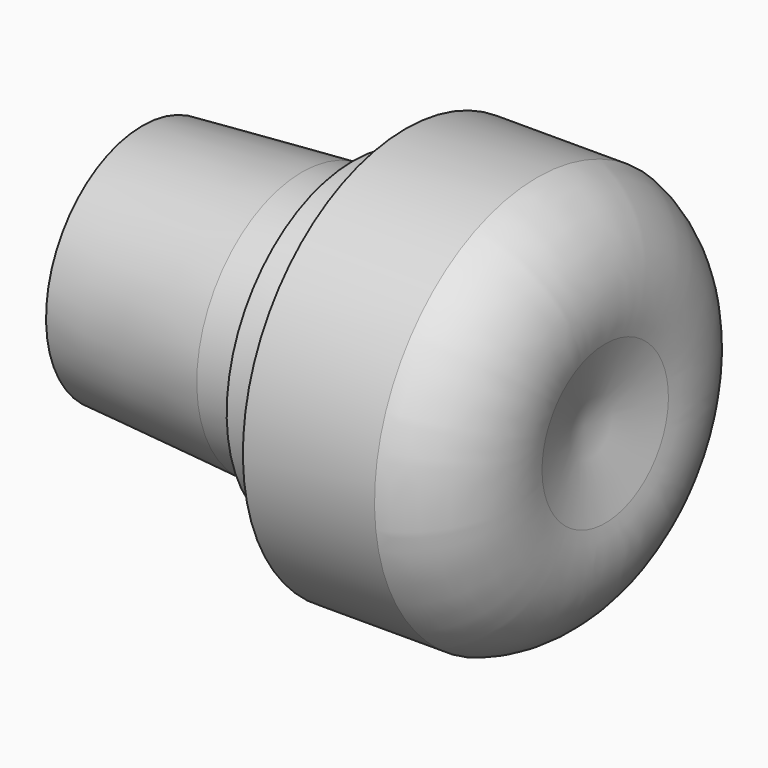
from build123d import *


with BuildPart() as f1:
    # F0 (on Front) → F1 (revolve)
    with BuildSketch(Plane.XZ):
        with BuildLine():
            Line((-114.3, 58.114587), (-114.3, 31.75))
            Line((-114.3, 31.75), (4.380015, 31.75))
            Line((4.380015, 31.75), (15.378538, 38.1))
            Line((15.378538, 38.1), (28.078538, 38.1))
            Line((28.078538, 38.1), (34.428538, 31.75))
            Line((34.428538, 31.75), (34.428538, 0))
            Line((34.428538, 0), (98.73198, 0))
            Line((98.73198, 0), (108.940844, 38.1))
            ThreePointArc((108.940844, 38.1), (104.562064, 74.670998), (76.148301, 98.1075))
            Line((76.148301, 98.1075), (12.648301, 98.1075))
            Line((12.648301, 98.1075), (0, 76.2))
            Line((0, 76.2), (-12.7, 76.2))
            Line((-12.7, 76.2), (-12.7, 63.5))
            Line((-12.7, 63.5), (-37.28501, 63.5))
            Line((-37.28501, 63.5), (-114.3, 58.114587))
        make_face()
    revolve(axis=Axis((50.931664, 0, 0), (1, 0, 0)))


solid = f1.part
